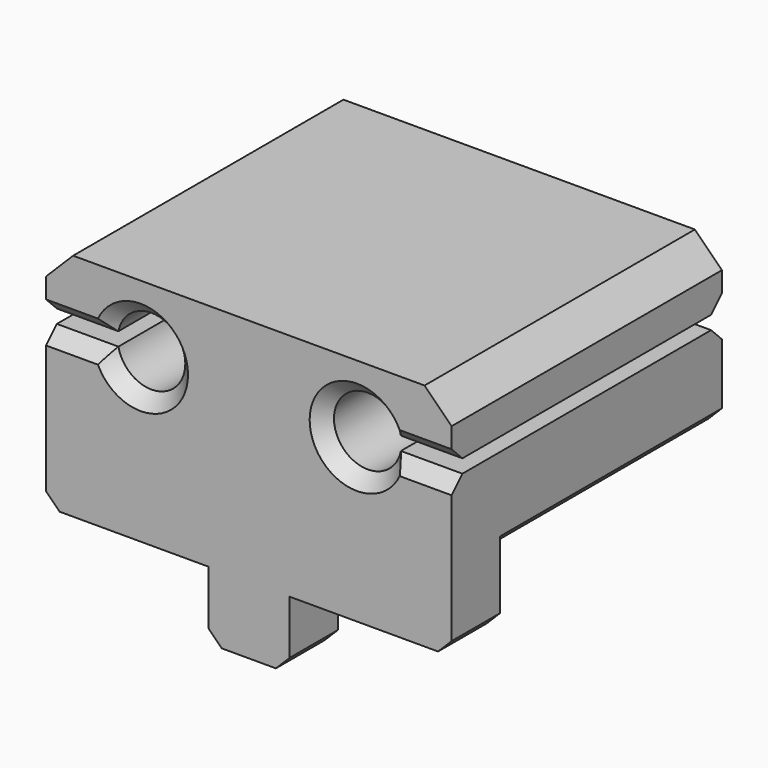
from build123d import *

# Parameters (mm, degrees)
CYLINDER026_R      = 6
CYLINDER026_DEPTH  = 5
CYLINDER022_R      = 2.5
CYLINDER022_DEPTH  = 25
BOX020_W           = 5
BOX020_H           = 25
BOX020_DEPTH       = 1
CYLINDER021_R      = 2.5
CYLINDER021_DEPTH  = 25
BOX021_W           = 5
BOX021_H           = 25
BOX021_DEPTH       = 1
BOX017_W           = 30
BOX017_H           = 25
BOX017_DEPTH       = 12
CHAMFER006019_SIZE = 2
CHAMFER006020_SIZE = 1
BOX019_W           = 6
BOX019_H           = 4.5
BOX019_DEPTH       = 5
CHAMFER006011_SIZE = 1
BOX018_W           = 30
BOX018_H           = 4.5
BOX018_DEPTH       = 6
CHAMFER006021_SIZE = 1
CHAMFER006022_SIZE = 1


with BuildPart() as cylinder026:
    # Cylinder026 → Cylinder026 (new body)
    with BuildSketch(Plane(origin=(0, -25, 0), x_dir=(1, 0, 0), z_dir=(0, 0, 1))):
        Circle(CYLINDER026_R)
    extrude(amount=CYLINDER026_DEPTH)


with BuildPart() as cylinder022:
    # Cylinder022 → Cylinder022 (new body)
    with BuildSketch(Plane(origin=(8, -15, 7), x_dir=(1, 0, 0), z_dir=(0, -1, 0))):
        Circle(CYLINDER022_R)
    extrude(amount=CYLINDER022_DEPTH)


with BuildPart() as cube020:
    # Box020 → Box020 (new body)
    with BuildSketch(Plane(origin=(-15, -40, 6.5), x_dir=(1, 0, 0), z_dir=(0, 0, 1))):
        with Locations((2.5, 12.5)):
            Rectangle(BOX020_W, BOX020_H)
    extrude(amount=BOX020_DEPTH)


with BuildPart() as cylinder021:
    # Cylinder021 → Cylinder021 (new body)
    with BuildSketch(Plane(origin=(-8, -15, 7), x_dir=(1, 0, 0), z_dir=(0, -1, 0))):
        Circle(CYLINDER021_R)
    extrude(amount=CYLINDER021_DEPTH)


with BuildPart() as fusion020006007003002009016:
    # Box021 → Box021 (new body)
    with BuildSketch(Plane(origin=(10, -40, 6.5), x_dir=(1, 0, 0), z_dir=(0, 0, 1))):
        with Locations((2.5, 12.5)):
            Rectangle(BOX021_W, BOX021_H)
    extrude(amount=BOX021_DEPTH)

    # Fusion020006007003002009016: union Cylinder022, Cube020, Cylinder021
    add(cylinder022.part)
    add(cube020.part)
    add(cylinder021.part)


with BuildPart() as chamfer006020:
    # Box017 → Box017 (new body)
    with BuildSketch(Plane(origin=(-15, -40, 0), x_dir=(1, 0, 0), z_dir=(0, 0, 1))):
        with Locations((15, 12.5)):
            Rectangle(BOX017_W, BOX017_H)
    extrude(amount=BOX017_DEPTH)

    # Chamfer006019
    chamfer006019_edges = [chamfer006020.edges().sort_by_distance(p)[0] for p in [
        (-15, -27.5, 12),
        (15, -27.5, 12),
    ]]
    chamfer(chamfer006019_edges, length=CHAMFER006019_SIZE)

    # Chamfer006020
    chamfer006020_edges = [chamfer006020.edges().sort_by_distance(p)[0] for p in [
        (-15, -27.5, 0),
        (15, -27.5, 0),
    ]]
    chamfer(chamfer006020_edges, length=CHAMFER006020_SIZE)


with BuildPart() as chamfer006011:
    # Box019 → Box019 (new body)
    with BuildSketch(Plane(origin=(-3, -40, -10), x_dir=(1, 0, 0), z_dir=(0, 0, 1))):
        with Locations((3, 2.25)):
            Rectangle(BOX019_W, BOX019_H)
    extrude(amount=BOX019_DEPTH)

    # Chamfer006011
    chamfer006011_edges = [chamfer006011.edges().sort_by_distance(p)[0] for p in [
        (-3, -37.75, -10),
        (3, -37.75, -10),
    ]]
    chamfer(chamfer006011_edges, length=CHAMFER006011_SIZE)


with BuildPart() as side_stopper:
    # Box018 → Box018 (new body)
    with BuildSketch(Plane(origin=(-15, -40, -5), x_dir=(1, 0, 0), z_dir=(0, 0, 1))):
        with Locations((15, 2.25)):
            Rectangle(BOX018_W, BOX018_H)
    extrude(amount=BOX018_DEPTH)

    # Chamfer006021
    chamfer006021_edges = [side_stopper.edges().sort_by_distance(p)[0] for p in [
        (-15, -37.75, -5),
        (15, -37.75, -5),
    ]]
    chamfer(chamfer006021_edges, length=CHAMFER006021_SIZE)

    # Fusion020006007003002009017: union Chamfer006020, Chamfer006011
    add(chamfer006020.part)
    add(chamfer006011.part)

    # Cut017: cut Fusion020006007003002009016
    add(fusion020006007003002009016.part, mode=Mode.SUBTRACT)

    # Chamfer006022
    chamfer006022_edges = [side_stopper.edges().sort_by_distance(p)[0] for p in [
        (12.724745, -40, 6.5),
        (5.5, -40, 7),
        (12.724745, -40, 7.5),
        (-12.724745, -40, 7.5),
        (-7.748728, -40, 9.48734),
        (-7.748728, -40, 4.51266),
        (-12.724745, -40, 6.5),
        (-12.724745, -15, 6.5),
        (12.724745, -15, 6.5),
        (5.5, -15, 7),
        (12.724745, -15, 7.5),
        (-12.724745, -15, 7.5),
        (-7.748728, -15, 9.48734),
        (-7.748728, -15, 4.51266),
    ]]
    chamfer(chamfer006022_edges, length=CHAMFER006022_SIZE)

    # Cut018: cut Cylinder026
    add(cylinder026.part, mode=Mode.SUBTRACT)


solid = side_stopper.part
